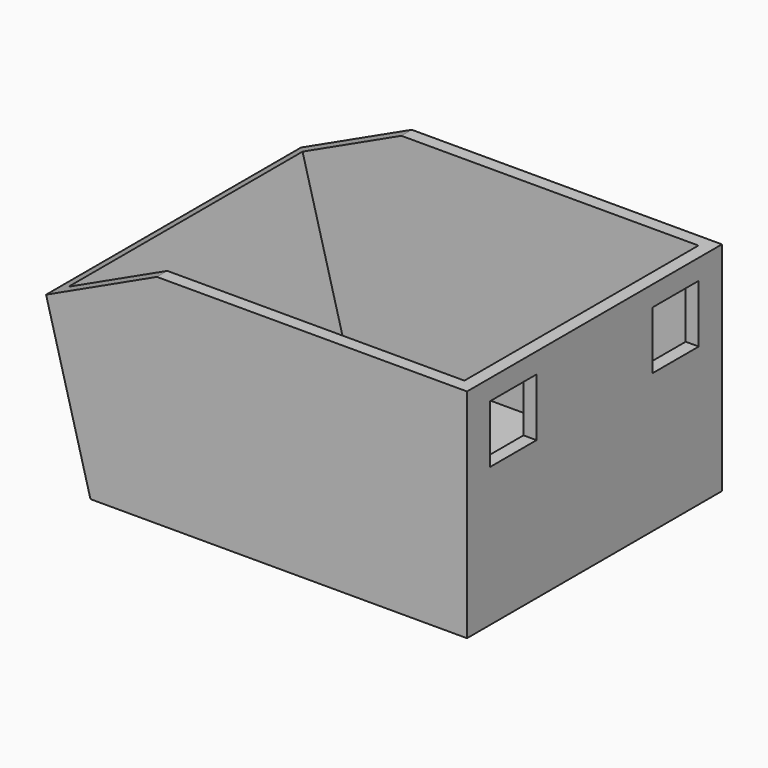
from build123d import *

# Parameters (mm, degrees)
F0_W     = 130
F0_H     = 110
F1_DEPTH = 75
F3_DEPTH = 110
F4_T     = -4.5
F6_DEPTH = 110.001
F7_W     = 20
F7_H     = 20
F8_DEPTH = 4.5


with BuildPart() as f1:
    # F0 (on Top) → F1 (new body)
    with BuildSketch(Plane.XY):
        Rectangle(F0_W, F0_H)
    extrude(amount=F1_DEPTH)

    # F2 (on face) → F3 (join, through all)
    with BuildSketch(Plane.XZ.offset(55)):
        Polygon((-85.096189, 75), (-65, 0), (-65, 75), align=None)
    extrude(amount=-F3_DEPTH)

    # F4
    f4_openings = [f1.faces().sort_by_distance(p)[0] for p in [
        (-10.048095, 0, 75),
    ]]
    offset(amount=F4_T, openings=f4_openings)

    # F5 (on face) → F6 (cut, through all)
    with BuildSketch(Plane.XZ.offset(55)):
        Polygon((-80.316136, 57.160596), (-42.05941, 75), (-85.419632, 75), align=None)
    extrude(amount=-F6_DEPTH, mode=Mode.SUBTRACT)

    # F7 (on face) → F8 (cut, through all)
    with BuildSketch(Plane.YZ.offset(65)):
        with Locations((-35, 58)):
            Rectangle(F7_W, F7_H)
        with Locations((35, 58)):
            Rectangle(F7_W, F7_H)
    extrude(amount=-F8_DEPTH, mode=Mode.SUBTRACT)


solid = f1.part
